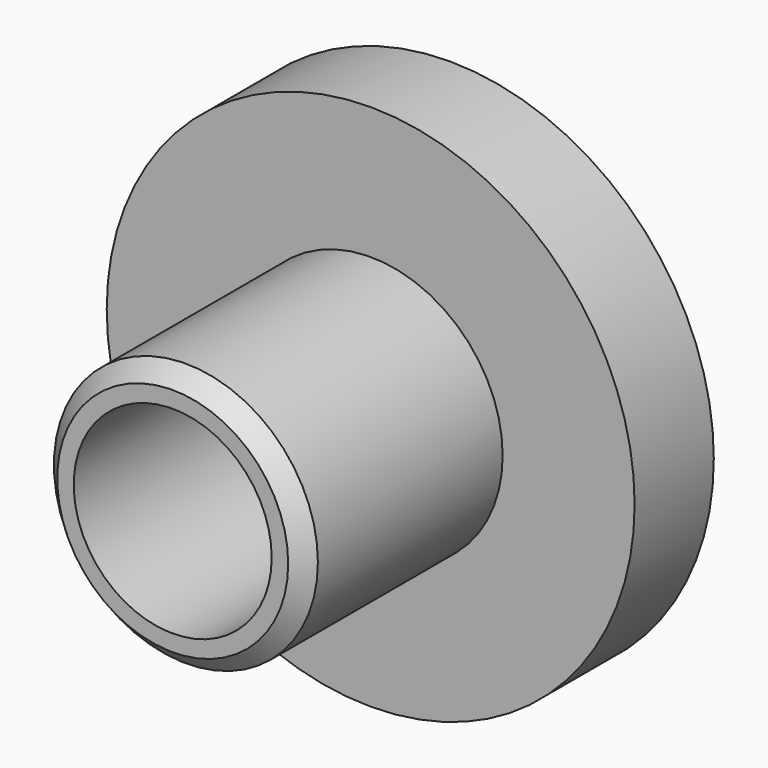
from build123d import *

# Parameters (mm, degrees)
F0_R     = 406.4
F0_R_2   = 203.2
F1_DEPTH = 76.2
F0_R_3   = 152.4
F2_DEPTH = 457.2
F3_DEPTH = 754.38
F4_SIZE  = 25.4
F5_DEPTH = 76.2


with BuildPart() as f1:
    # F0 (on Front) → F1 (new body, symmetric)
    with BuildSketch(Plane.XZ):
        Circle(F0_R)
        Circle(F0_R_2, mode=Mode.SUBTRACT)
    extrude(amount=F1_DEPTH, both=True)

    # F0 (on Front) → F2 (join)
    with BuildSketch(Plane.XZ):
        Circle(F0_R_2)
        Circle(F0_R_3, mode=Mode.SUBTRACT)
    extrude(amount=F2_DEPTH)

    # F0 (on Front) → F3 (cut)
    with BuildSketch(Plane.XZ):
        Circle(F0_R_3)
    extrude(amount=-F3_DEPTH, mode=Mode.SUBTRACT)

    # F4
    f4_edges = [f1.edges().sort_by_distance(p)[0] for p in [
        (-203.2, -457.2, 0),
    ]]
    chamfer(f4_edges, length=F4_SIZE)

    # F5 (add): a face of the model
    f5_faces = [f1.faces().sort_by_distance(p)[0] for p in [
        (-197.4526360825, 0, 0),
    ]]
    extrude(f5_faces, amount=F5_DEPTH)


solid = f1.part
